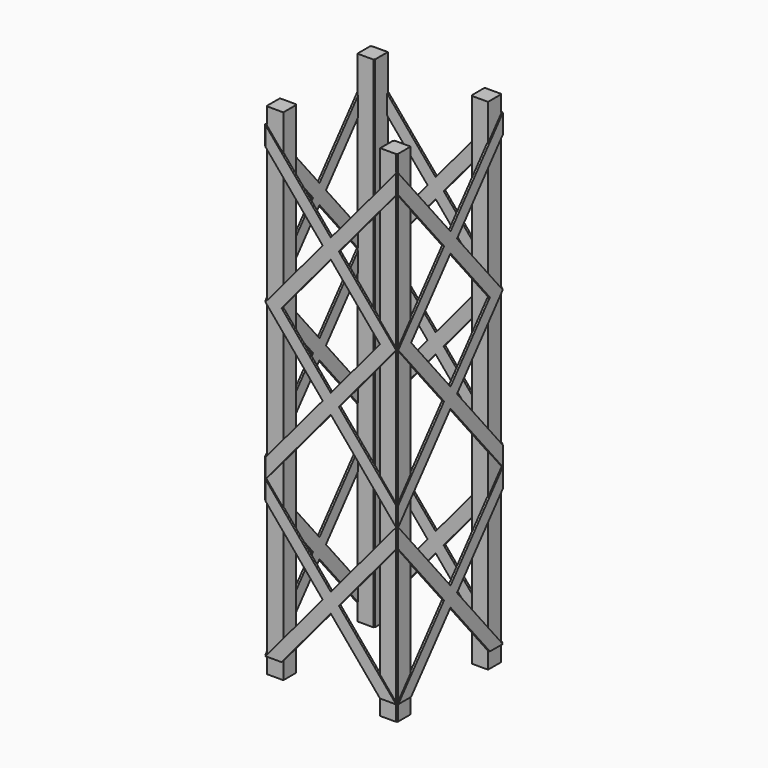
from build123d import *

# Parameters (mm, degrees)
F3_W     = 6.35
F3_H     = 6.3500000025
F4_DEPTH = 6.35
F5_DEPTH = 0.79375
F6_COUNT = 4


with BuildPart() as f4:
    # F3 (on line) → F4 (new body)
    with BuildSketch(Plane.YZ.offset(-25.4)):
        with Locations((-22.5614474237, 3.1750000013)):
            Rectangle(F3_W, F3_H)
        Polygon((-25.7364474237, 129.1166666658), (-25.7364474237, 75.3059434975), (-19.3864474237, 82.8785536608), (-19.3864474237, 121.5440565025), align=None)
        Polygon((-25.7364474237, 196.85), (-25.7364474237, 190.4999999975), (-19.3864474237, 182.9273898342), (-19.3864474237, 196.85), align=None)
        Polygon((-19.3864474237, 129.1166666658), (-25.7364474237, 129.1166666658), (-19.3864474237, 121.5440565025), align=None)
        Polygon((-25.7364474237, 75.3059434975), (-25.7364474237, 67.7333333342), (-19.3864474237, 75.3059434975), (-19.3864474237, 82.8785536608), align=None)
        Polygon((-25.7364474237, 182.9273898342), (-25.7364474237, 129.1166666658), (-19.3864474237, 136.6892768291), (-19.3864474237, 175.3547796709), align=None)
        Polygon((-25.7364474237, 190.4999999975), (-25.7364474237, 182.9273898342), (-19.3864474237, 175.3547796709), (-19.3864474237, 182.9273898342), align=None)
        Polygon((-19.3864474237, 129.1166666658), (-25.7364474237, 129.1166666658), (-19.3864474237, 121.5440565025), align=None)
        Polygon((-19.3864474237, 136.6892768291), (-25.7364474237, 129.1166666658), (-19.3864474237, 129.1166666658), align=None)
        Polygon((-19.3864474237, 75.3059434975), (-25.7364474237, 67.7333333342), (-19.3864474237, 60.1607231709), align=None)
        Polygon((-25.7364474237, 67.7333333342), (-25.7364474237, 60.1607231709), (-19.3864474237, 52.5881130076), (-19.3864474237, 60.1607231709), align=None)
        Polygon((-25.7364474237, 60.1607231709), (-25.7364474237, 6.3500000025), (-19.3864474237, 13.9226101658), (-19.3864474237, 52.5881130076), align=None)
        Polygon((-19.3864474237, 13.9226101658), (-25.7364474237, 6.3500000025), (-19.3864474237, 6.3500000025), align=None)
    extrude(amount=F4_DEPTH)


with BuildPart() as f4b:
    # F3 (on line) → F4, piece 2 (new body)
    with BuildSketch(Plane.YZ.offset(-25.4)):
        with Locations((22.5614474237, 3.1750000013)):
            Rectangle(F3_W, F3_H)
        Polygon((25.7364474237, 129.1166666658), (19.3864474237, 121.5440565025), (19.3864474237, 82.8785536608), (25.7364474237, 75.3059434975), align=None)
        Polygon((19.3864474237, 196.85), (19.3864474237, 182.9273898342), (25.7364474237, 190.4999999975), (25.7364474237, 196.85), align=None)
        Polygon((19.3864474237, 129.1166666658), (19.3864474237, 121.5440565025), (25.7364474237, 129.1166666658), align=None)
        Polygon((19.3864474237, 82.8785536608), (19.3864474237, 75.3059434975), (25.7364474237, 67.7333333342), (25.7364474237, 75.3059434975), align=None)
        Polygon((19.3864474237, 182.9273898342), (19.3864474237, 175.3547796709), (25.7364474237, 182.9273898342), (25.7364474237, 190.4999999975), align=None)
        Polygon((19.3864474237, 136.6892768291), (25.7364474237, 129.1166666658), (25.7364474237, 182.9273898342), (19.3864474237, 175.3547796709), align=None)
        Polygon((19.3864474237, 136.6892768291), (19.3864474237, 129.1166666658), (25.7364474237, 129.1166666658), align=None)
        Polygon((19.3864474237, 129.1166666658), (19.3864474237, 121.5440565025), (25.7364474237, 129.1166666658), align=None)
        Polygon((19.3864474237, 60.1607231709), (19.3864474237, 52.5881130076), (25.7364474237, 60.1607231709), (25.7364474237, 67.7333333342), align=None)
        Polygon((19.3864474237, 52.5881130076), (19.3864474237, 13.9226101658), (25.7364474237, 6.3500000025), (25.7364474237, 60.1607231709), align=None)
        Polygon((19.3864474237, 13.9226101658), (19.3864474237, 6.3500000025), (25.7364474237, 6.3500000025), align=None)
        Polygon((19.3864474237, 75.3059434975), (19.3864474237, 60.1607231709), (25.7364474237, 67.7333333342), align=None)
    extrude(amount=F4_DEPTH)


with BuildPart() as f5:
    # F3 (on line) → F5 (new body)
    with BuildSketch(Plane.YZ.offset(-25.4)):
        Polygon((-19.3864474237, 129.1166666658), (-19.3864474237, 121.5440565025), (-3.175, 102.2113050817), (0, 105.9976101633), align=None)
        Polygon((-19.3864474237, 129.1166666658), (-25.7364474237, 129.1166666658), (-19.3864474237, 121.5440565025), align=None)
        Polygon((-19.3864474237, 82.8785536608), (-19.3864474237, 75.3059434975), (0, 98.425), (-3.175, 102.2113050817), align=None)
        Polygon((-25.7364474237, 75.3059434975), (-25.7364474237, 67.7333333342), (-19.3864474237, 75.3059434975), (-19.3864474237, 82.8785536608), align=None)
        Polygon((3.175, 102.2113050817), (0, 98.425), (19.3864474237, 75.3059434975), (19.3864474237, 82.8785536608), align=None)
        Polygon((19.3864474237, 82.8785536608), (19.3864474237, 75.3059434975), (25.7364474237, 67.7333333342), (25.7364474237, 75.3059434975), align=None)
        Polygon((-3.175, 102.2113050817), (0, 98.425), (3.175, 102.2113050817), (0, 105.9976101633), align=None)
        Polygon((19.3864474237, 129.1166666658), (19.3864474237, 121.5440565025), (25.7364474237, 129.1166666658), align=None)
        Polygon((0, 105.9976101633), (3.175, 102.2113050817), (19.3864474237, 121.5440565025), (19.3864474237, 129.1166666658), align=None)
        Polygon((19.3864474237, 182.9273898342), (19.3864474237, 175.3547796709), (25.7364474237, 182.9273898342), (25.7364474237, 190.4999999975), align=None)
        Polygon((0, 159.8083333316), (3.175, 156.02202825), (19.3864474237, 175.3547796709), (19.3864474237, 182.9273898342), align=None)
        Polygon((-19.3864474237, 182.9273898342), (-19.3864474237, 175.3547796709), (-3.175, 156.02202825), (0, 159.8083333316), align=None)
        Polygon((-25.7364474237, 190.4999999975), (-25.7364474237, 182.9273898342), (-19.3864474237, 175.3547796709), (-19.3864474237, 182.9273898342), align=None)
        Polygon((-3.175, 156.02202825), (0, 152.2357231683), (3.175, 156.02202825), (0, 159.8083333316), align=None)
        Polygon((3.175, 156.02202825), (0, 152.2357231683), (19.3864474237, 129.1166666658), (19.3864474237, 136.6892768291), align=None)
        Polygon((-19.3864474237, 136.6892768291), (-25.7364474237, 129.1166666658), (-19.3864474237, 129.1166666658), align=None)
        Polygon((-19.3864474237, 129.1166666658), (-25.7364474237, 129.1166666658), (-19.3864474237, 121.5440565025), align=None)
        Polygon((19.3864474237, 136.6892768291), (19.3864474237, 129.1166666658), (25.7364474237, 129.1166666658), align=None)
        Polygon((19.3864474237, 129.1166666658), (19.3864474237, 121.5440565025), (25.7364474237, 129.1166666658), align=None)
        Polygon((-19.3864474237, 136.6892768291), (-19.3864474237, 129.1166666658), (0, 152.2357231683), (-3.175, 156.02202825), align=None)
    extrude(amount=-F5_DEPTH)


with BuildPart() as f5b:
    # F3 (on line) → F5, piece 2 (new body)
    with BuildSketch(Plane.YZ.offset(-25.4)):
        Polygon((-25.7364474237, 67.7333333342), (-25.7364474237, 60.1607231709), (-19.3864474237, 52.5881130076), (-19.3864474237, 60.1607231709), align=None)
        Polygon((0, 37.0416666684), (3.175, 33.2553615867), (19.3864474237, 52.5881130076), (19.3864474237, 60.1607231709), align=None)
        Polygon((-19.3864474237, 60.1607231709), (-19.3864474237, 52.5881130076), (-3.175, 33.2553615867), (0, 37.0416666684), align=None)
        Polygon((-19.3864474237, 13.9226101658), (-19.3864474237, 6.3500000025), (0, 29.4690565051), (-3.175, 33.2553615867), align=None)
        Polygon((-3.175, 33.2553615867), (0, 29.4690565051), (3.175, 33.2553615867), (0, 37.0416666684), align=None)
        Polygon((19.3864474237, 60.1607231709), (19.3864474237, 52.5881130076), (25.7364474237, 60.1607231709), (25.7364474237, 67.7333333342), align=None)
        Polygon((3.175, 33.2553615867), (0, 29.4690565051), (19.3864474237, 6.3500000025), (19.3864474237, 13.9226101658), align=None)
        Polygon((-19.3864474237, 13.9226101658), (-25.7364474237, 6.3500000025), (-19.3864474237, 6.3500000025), align=None)
        Polygon((19.3864474237, 13.9226101658), (19.3864474237, 6.3500000025), (25.7364474237, 6.3500000025), align=None)
    extrude(amount=-F5_DEPTH)


with BuildPart() as f6_1:
    # F6: instance of F4b
    add(f4b.part.rotate(Axis((0, 0, 98.425), (0, 0, 1)), 1 * 360 / F6_COUNT))


with BuildPart() as f6_2:
    # F6: instance of F4b
    add(f4b.part.rotate(Axis((0, 0, 98.425), (0, 0, 1)), 2 * 360 / F6_COUNT))


with BuildPart() as f6_3:
    # F6: instance of F4b
    add(f4b.part.rotate(Axis((0, 0, 98.425), (0, 0, 1)), 3 * 360 / F6_COUNT))


with BuildPart() as f6_4:
    # F6: instance of F4
    add(f4.part.rotate(Axis((0, 0, 98.425), (0, 0, 1)), 1 * 360 / F6_COUNT))


with BuildPart() as f6_5:
    # F6: instance of F4
    add(f4.part.rotate(Axis((0, 0, 98.425), (0, 0, 1)), 2 * 360 / F6_COUNT))


with BuildPart() as f6_6:
    # F6: instance of F4
    add(f4.part.rotate(Axis((0, 0, 98.425), (0, 0, 1)), 3 * 360 / F6_COUNT))


with BuildPart() as f6_7:
    # F6: instance of F5b
    add(f5b.part.rotate(Axis((0, 0, 98.425), (0, 0, 1)), 1 * 360 / F6_COUNT))


with BuildPart() as f6_8:
    # F6: instance of F5b
    add(f5b.part.rotate(Axis((0, 0, 98.425), (0, 0, 1)), 2 * 360 / F6_COUNT))


with BuildPart() as f6_9:
    # F6: instance of F5b
    add(f5b.part.rotate(Axis((0, 0, 98.425), (0, 0, 1)), 3 * 360 / F6_COUNT))


with BuildPart() as f6_10:
    # F6: instance of F5
    add(f5.part.rotate(Axis((0, 0, 98.425), (0, 0, 1)), 1 * 360 / F6_COUNT))


with BuildPart() as f6_11:
    # F6: instance of F5
    add(f5.part.rotate(Axis((0, 0, 98.425), (0, 0, 1)), 2 * 360 / F6_COUNT))


with BuildPart() as f6_12:
    # F6: instance of F5
    add(f5.part.rotate(Axis((0, 0, 98.425), (0, 0, 1)), 3 * 360 / F6_COUNT))


solid = Compound([f4.part, f4b.part, f5.part, f5b.part, f6_1.part, f6_2.part, f6_3.part, f6_4.part, f6_5.part, f6_6.part, f6_7.part, f6_8.part, f6_9.part, f6_10.part, f6_11.part, f6_12.part])
